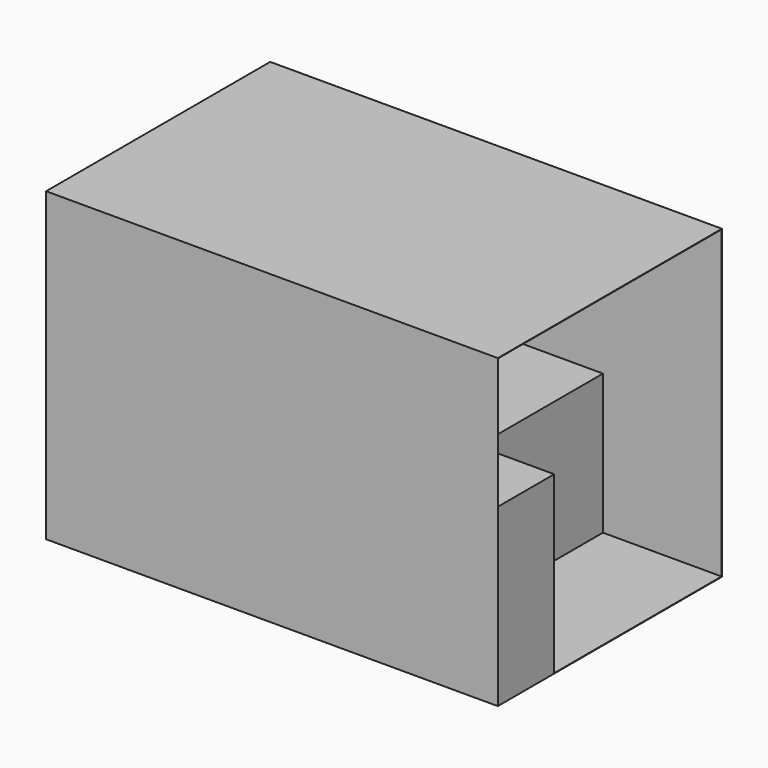
from build123d import *

# Parameters (mm, degrees)
F0_W     = 2580
F0_H     = 1600
F1_DEPTH = 1750
F2_T     = -2.5
F3_W     = 1900
F3_H     = 1595
F4_DEPTH = 800
F5_W     = 677.5
F5_H     = 400
F6_DEPTH = 1000


with BuildPart() as f1:
    # F0 (on Top) → F1 (new body)
    with BuildSketch(Plane.XY):
        with Locations((1290, -800)):
            Rectangle(F0_W, F0_H)
    extrude(amount=F1_DEPTH)

    # F2
    f2_openings = [f1.faces().sort_by_distance(p)[0] for p in [
        (2580, -800, 875),
    ]]
    offset(amount=F2_T, openings=f2_openings)

    # F3 (on face) → F4 (join)
    with BuildSketch(Plane.XY.offset(2.5)):
        with Locations((952.5, -800)):
            Rectangle(F3_W, F3_H)
    extrude(amount=F4_DEPTH)

    # F5 (on face) → F6 (join)
    with BuildSketch(Plane.XY.offset(2.5)):
        with Locations((2241.25, -1397.5)):
            Rectangle(F5_W, F5_H)
    extrude(amount=F6_DEPTH)


solid = f1.part
